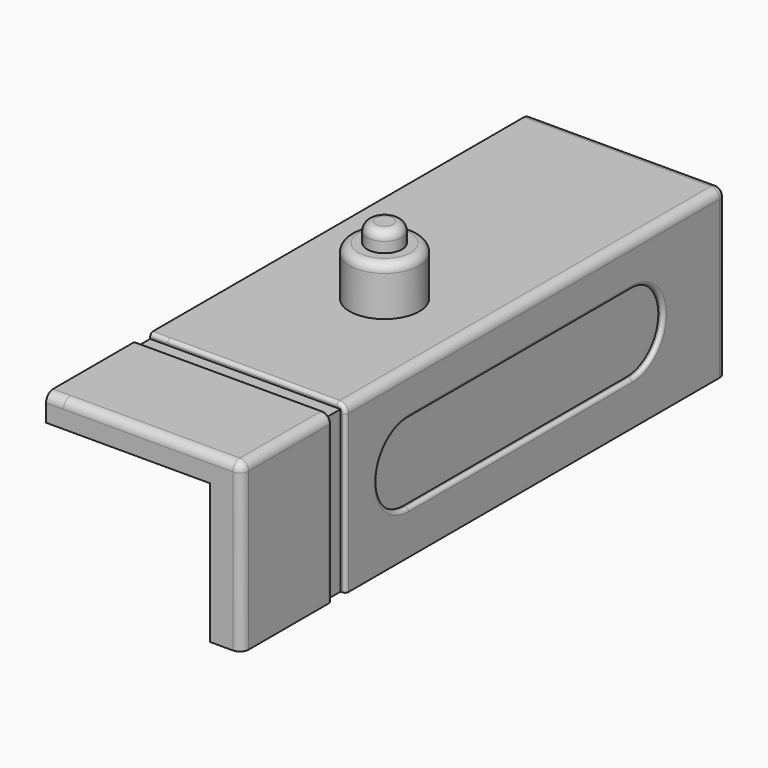
from build123d import *

# Parameters (mm, degrees)
SKETCH164_W                    = 34.7
SKETCH164_H                    = 9.5
PAD087_DEPTH                   = 10.2
SKETCH165_W                    = 34.7
SKETCH165_H                    = 8
POCKET082_DEPTH                = 8.4
SKETCH166_W                    = 11.3
SKETCH166_H                    = 8
PAD088_DEPTH                   = 3.8
SKETCH167_R                    = 1.5
PAD089_DEPTH                   = 7.5
FILLET035_R                    = 0.5
SKETCH168_W                    = 8.8
SKETCH168_H                    = 6.75
POCKET083_DEPTH                = 3.81
SKETCH170_W                    = 1.25
SKETCH170_H                    = 4
POCKET084_DEPTH                = 1.25
PAD090_DEPTH                   = 2.56
SKETCH171_R                    = 1.9
PAD091_DEPTH                   = 5
SKETCH172_R                    = 1.05
POCKET085_DEPTH                = 2.56
SKETCH173_R                    = 0.75
POCKET086_DEPTH                = 5
SKETCH174_W                    = 1
SKETCH174_H                    = 9.5
POCKET087_DEPTH                = 0.3
SKETCH175_W                    = 1
SKETCH175_H                    = 10.2
POCKET088_DEPTH                = 0.3
FILLET036_R                    = 0.2
FILLET037_R                    = 0.2
SKETCH176_R                    = 2
PAD092_DEPTH                   = 2.8
FILLET038_R                    = 0.5
FILLET039_R                    = 0.5
SKETCH178_R                    = 1
PAD093_DEPTH                   = 1.1
FILLET040_R                    = 0.5
PAD162_DEPTH                   = 1
PART_MIRRORING_ROLL_ANGLE      = -90
PART_MIRRORING_PLACEMENT_ANGLE = -90


with BuildPart() as l_arm_shield:
    # Sketch164 → Pad087 (new body)
    with BuildSketch(Plane.XY):
        with Locations((-17.35, 0)):
            Rectangle(SKETCH164_W, SKETCH164_H)
    extrude(amount=PAD087_DEPTH)

    # Sketch165 (on Face6 of Pad087) → Pocket082 (cut)
    with BuildSketch(Plane.XY.offset(10.2)):
        with Locations((-17.35, 0.75)):
            Rectangle(SKETCH165_W, SKETCH165_H)
    extrude(amount=-POCKET082_DEPTH, mode=Mode.SUBTRACT)

    # Sketch166 (on Face6 of Pocket082) → Pad088 (join)
    with BuildSketch(Plane.XY.offset(1.8)):
        with Locations((-12.75, 0.75)):
            Rectangle(SKETCH166_W, SKETCH166_H)
    extrude(amount=PAD088_DEPTH)

    # Sketch167 (on Face6 of Pad088) → Pad089 (join)
    with BuildSketch(Plane.XY.offset(1.8)):
        with Locations((-22, 0.75)):
            Circle(SKETCH167_R)
    extrude(amount=PAD089_DEPTH)

    # Fillet035
    fillet035_edges = [l_arm_shield.edges().sort_by_distance(p)[0] for p in [
        (-17.35, -4.75, 0),
        (-34.7, -4.75, 5.1),
        (-34.7, 0, 0),
        (0, -4.75, 5.1),
        (0, 0, 0),
    ]]
    fillet(fillet035_edges, radius=FILLET035_R)

    # Sketch168 (on Face14 of Fillet035) → Pocket083 (cut)
    with BuildSketch(Plane.XY.offset(5.6)):
        with Locations((-12.75, 0.125)):
            Rectangle(SKETCH168_W, SKETCH168_H)
    extrude(amount=-POCKET083_DEPTH, mode=Mode.SUBTRACT)

    # Sketch170 (on Face13 of Pocket083) → Pocket084 (cut)
    with BuildSketch(Plane.XY.offset(5.6)):
        with Locations((-7.725, 0.75)):
            Rectangle(SKETCH170_W, SKETCH170_H)
    extrude(amount=-POCKET084_DEPTH, mode=Mode.SUBTRACT)

    # Sketch169 (on Face23 of Pocket083) → Pad090 (join)
    with BuildSketch(Plane.XY.offset(1.79)):
        with BuildLine():
            Line((-8.35, 2.75), (-11.5, 2.75))
            ThreePointArc((-11.5, 2.75), (-13.500002, 0.750015), (-11.500029, -1.25))
            Line((-11.500029, -1.25), (-8.35, -1.25))
            Line((-8.35, -1.25), (-8.35, 2.75))
        make_face()
    extrude(amount=PAD090_DEPTH)

    # Sketch171 (on Face16 of Pad090) → Pad091 (join)
    with BuildSketch(Plane.XY.offset(1.79)):
        with Locations((-15.5, 0.75)):
            Circle(SKETCH171_R)
    extrude(amount=PAD091_DEPTH)

    # Sketch172 (on Face26 of Pad091) → Pocket085 (cut)
    with BuildSketch(Plane.XY.offset(4.35)):
        with Locations((-11.5, 0.75)):
            Circle(SKETCH172_R)
    extrude(amount=-POCKET085_DEPTH, mode=Mode.SUBTRACT)

    # Sketch173 (on Face37 of Pocket085) → Pocket086 (cut)
    with BuildSketch(Plane.XY.offset(6.79)):
        with Locations((-15.5, 0.75)):
            Circle(SKETCH173_R)
    extrude(amount=-POCKET086_DEPTH, mode=Mode.SUBTRACT)

    # Sketch174 (on Face20 of Pocket086) → Pocket087 (cut)
    with BuildSketch(Plane(origin=(0, 0, 0), x_dir=(1, 0, 0), z_dir=(0, 0, -1))):
        with BuildLine():
            ThreePointArc((-27.95, 2.25), (-30.2, 0), (-27.95, -2.25))
            Line((-27.95, -2.25), (-11.95, -2.25))
            ThreePointArc((-11.95, -2.25), (-9.7, 0), (-11.95, 2.25))
            Line((-27.95, 2.25), (-11.95, 2.25))
        make_face()
        with Locations((-6.95, 0)):
            Rectangle(SKETCH174_W, SKETCH174_H)
    extrude(amount=-POCKET087_DEPTH, mode=Mode.SUBTRACT)

    # Sketch175 (on Face10 of Pocket087) → Pocket088 (cut)
    with BuildSketch(Plane.XZ.offset(4.75)):
        with Locations((-6.95, 5.1)):
            Rectangle(SKETCH175_W, SKETCH175_H)
    extrude(amount=-POCKET088_DEPTH, mode=Mode.SUBTRACT)

    # Fillet036
    fillet036_edges = [l_arm_shield.edges().sort_by_distance(p)[0] for p in [
        (-9.7, 0, 0),
        (-19.95, 2.25, 0),
        (-19.95, -2.25, 0),
        (-30.2, 0, 0),
    ]]
    fillet(fillet036_edges, radius=FILLET036_R)

    # Fillet037
    fillet037_edges = [l_arm_shield.edges().sort_by_distance(p)[0] for p in [
        (-7.45, 0.25, 0),
        (-6.45, 0.25, 0),
        (-7.45, -4.352155, 0.010547),
        (-7.45, -4.603553, 0.146447),
        (-7.45, -4.739453, 0.397845),
        (-7.45, -4.75, 5.35),
        (-6.45, -4.75, 5.35),
        (-6.45, -4.739453, 0.397845),
        (-6.45, -4.603553, 0.146447),
        (-6.45, -4.352155, 0.010547),
    ]]
    fillet(fillet037_edges, radius=FILLET037_R)

    # Sketch176 (on Face13 of Fillet037) → Pad092 (join)
    with BuildSketch(Plane.XZ.offset(4.75)):
        with Locations((-16.6, 5.1)):
            Circle(SKETCH176_R)
    extrude(amount=PAD092_DEPTH)

    # Fillet038
    fillet038_edges = [l_arm_shield.edges().sort_by_distance(p)[0] for p in [
        (-18.6, -7.55, 5.1),
    ]]
    fillet(fillet038_edges, radius=FILLET038_R)

    # Fillet039
    fillet039_edges = [l_arm_shield.edges().sort_by_distance(p)[0] for p in [
        (-7.1, 4.75, 3.7),
        (-18.4, 4.75, 3.7),
    ]]
    fillet(fillet039_edges, radius=FILLET039_R)

    # Sketch178 (on Face71 of Fillet039) → Pad093 (join)
    with BuildSketch(Plane.XZ.offset(7.55)):
        with Locations((-16.6, 5.1)):
            Circle(SKETCH178_R)
    extrude(amount=PAD093_DEPTH)

    # Fillet040
    fillet040_edges = [l_arm_shield.edges().sort_by_distance(p)[0] for p in [
        (-17.6, -8.65, 5.1),
    ]]
    fillet(fillet040_edges, radius=FILLET040_R)

    # Sketch283 (on Face11 of Fillet040) → Pad162 (join)
    with BuildSketch(Plane.XY.offset(10.2)):
        with BuildLine():
            Line((0, -3.25), (0, -4.25))
            ThreePointArc((-0.5, -4.75), (-0.146447, -4.603553), (0, -4.25))
            Line((-0.5, -4.75), (-6.25, -4.75))
            ThreePointArc((-6.45, -4.55), (-6.391421, -4.691421), (-6.25, -4.75))
            Line((-6.45, -4.55), (-6.45, -4.45))
            Line((-6.45, -4.45), (-7.45, -4.45))
            Line((-7.45, -4.45), (-7.45, -4.55))
            ThreePointArc((-7.65, -4.75), (-7.508579, -4.691421), (-7.45, -4.55))
            Line((-7.65, -4.75), (-34.2, -4.75))
            ThreePointArc((-34.7, -4.25), (-34.553553, -4.603553), (-34.2, -4.75))
            Line((-34.7, -4.25), (-34.7, -3.25))
            Line((-34.7, -3.25), (0, -3.25))
        make_face()
    extrude(amount=PAD162_DEPTH)


with BuildPart() as obj1:
    # Part__Mirroring: instance of L_Arm_Shield
    add(l_arm_shield.part.mirror(Plane(origin=(0, 0, 0), x_dir=(0, 1, 0), z_dir=(0, 0, 1))))


with BuildPart() as obj1_1:
    # Part__Mirroring roll: moved
    add(obj1.part.rotate(Axis((0, 0, 0), (1, 0, 0)), PART_MIRRORING_ROLL_ANGLE))


with BuildPart() as obj1_2:
    # Part__Mirroring placement: moved
    add(obj1_1.part.moved(Location((49.15, -55.7, 8))).rotate(Axis((49.15, -55.7, 8), (0, 0, 1)), PART_MIRRORING_PLACEMENT_ANGLE))


solid = obj1_2.part
